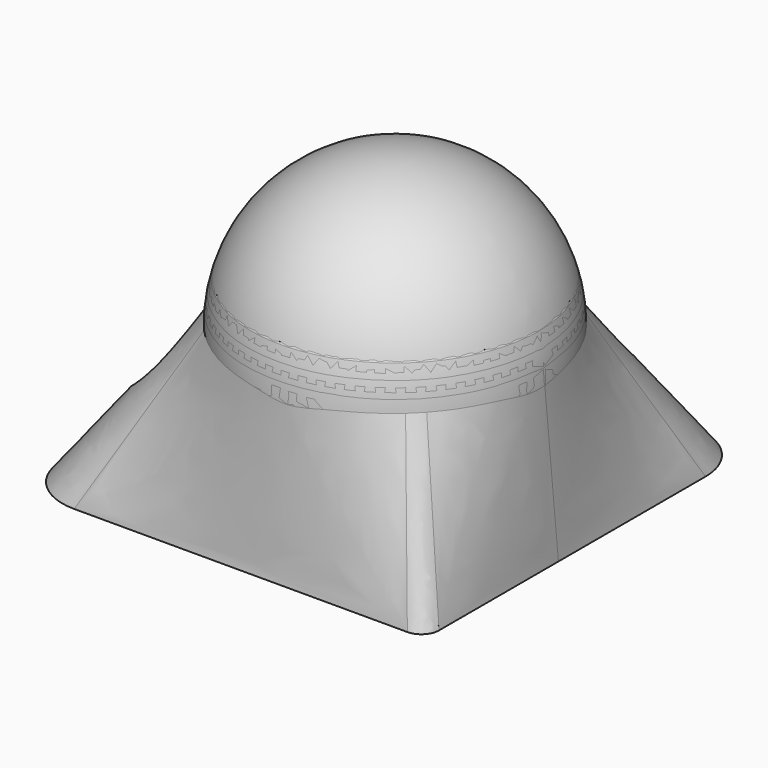
from build123d import *

# Parameters (mm, degrees)
SKETCH001_R     = 17
CYLINDER_R      = 17.01
CYLINDER_DEPTH  = 17.01
FILLET_R        = 1
SKETCH002_R     = 2.2
SKETCH002_R_2   = 3.8
POCKET_DEPTH    = 24.401
SKETCH003_R     = 3.8
POCKET001_DEPTH = 21.401
SKETCH006_R     = 17
SKETCH007_R     = 2.2
POCKET002_DEPTH = 36.011
SKETCH008_R     = 3.8
POCKET003_DEPTH = 33.011


with BuildPart() as body:
    # Sketch001 → AdditiveLoft section 0
    with BuildSketch(Plane.XY.offset(19)):
        Circle(SKETCH001_R)
    # Sketch → AdditiveLoft section 1
    with BuildSketch(Plane.XY):
        with BuildLine():
            ThreePointArc((-9.666667, 3), (-4.952621, 4.952621), (-3, 9.666667))
            Line((-3, 9.666667), (-3, 22.933333))
            ThreePointArc((3.666667, 29.6), (-1.047379, 27.647379), (-3, 22.933333))
            Line((3.666667, 29.6), (10.333333, 29.6))
            ThreePointArc((17, 22.933333), (15.047379, 27.647379), (10.333333, 29.6))
            Line((17, 22.933333), (17, -15))
            ThreePointArc((15, -17), (16.414214, -16.414214), (17, -15))
            Line((15, -17), (-22.933333, -17))
            ThreePointArc((-29.6, -10.333333), (-27.647379, -15.047379), (-22.933333, -17))
            Line((-29.6, -10.333333), (-29.6, -3.666667))
            ThreePointArc((-22.933333, 3), (-27.647379, 1.047379), (-29.6, -3.666667))
            Line((-22.933333, 3), (-9.666667, 3))
        make_face()
    loft()

    # Sphere → Sphere (revolve)
    with BuildSketch(Plane(origin=(0, 0, 19), x_dir=(1, 0, 0), z_dir=(0, -1, 0))):
        with BuildLine():
            ThreePointArc((0, -17.01), (17.01, 0), (0, 17.01))
            Line((0, 17.01), (0, -17.01))
        make_face()
    revolve(axis=Axis((0, 0, 19), (0, 0, 1)))

    # Cylinder → Cylinder (cut)
    with BuildSketch(Plane.XY.offset(24.4)):
        Circle(CYLINDER_R)
    extrude(amount=CYLINDER_DEPTH, mode=Mode.SUBTRACT)

    # Sphere001 → Sphere001 (revolve, cut)
    with BuildSketch(Plane(origin=(0, 0, 19), x_dir=(1, 0, 0), z_dir=(0, -1, 0))):
        with BuildLine():
            ThreePointArc((0, -15), (15, 0), (0, 15))
            Line((0, 15), (0, -15))
        make_face()
    revolve(axis=Axis((0, 0, 19), (0, 0, 1)), mode=Mode.SUBTRACT)

    # Fillet
    fillet_edges = [body.edges().sort_by_distance(p)[0] for p in [
        (-16.130099, 0, 24.4),
        (-13.994285, 0, 24.4),
    ]]
    fillet(fillet_edges, radius=FILLET_R)

    # Sketch002 → Pocket (cut, through all)
    with BuildSketch(Plane.XY):
        with Locations((7, 19.6)):
            Circle(SKETCH002_R)
        with Locations((-19.6, -7)):
            Circle(SKETCH002_R)
        Circle(SKETCH002_R_2)
    extrude(amount=POCKET_DEPTH, mode=Mode.SUBTRACT)

    # Sketch003 → Pocket001 (cut, through all)
    with BuildSketch(Plane.XY.offset(3)):
        with Locations((7, 19.6)):
            Circle(SKETCH003_R)
        with Locations((-19.6, -7)):
            Circle(SKETCH003_R)
    extrude(amount=POCKET001_DEPTH, mode=Mode.SUBTRACT)


with BuildPart() as plug:
    # Sketch004 → Revolution (revolve)
    with BuildSketch(Plane.XZ):
        Polygon((0, 0), (-16.385664, 0), (-16.385664, 10.471203), (-14.3, 10.471203), (-14.2, 12.554469), (0, 12.554469), align=None)
    revolve(axis=Axis((0, 0, 0), (0, 0, 1)))


with BuildPart() as tpu:
    # Sketch006 → AdditiveLoft001 section 0
    with BuildSketch(Plane.XY.offset(19)):
        Circle(SKETCH006_R)
    # Sketch005 → AdditiveLoft001 section 1
    with BuildSketch(Plane.XY):
        with BuildLine():
            ThreePointArc((-9.666667, 3), (-4.952621, 4.952621), (-3, 9.666667))
            Line((-3, 9.666667), (-3, 22.933333))
            ThreePointArc((3.666667, 29.6), (-1.047379, 27.647379), (-3, 22.933333))
            Line((3.666667, 29.6), (10.333333, 29.6))
            ThreePointArc((17, 22.933333), (15.047379, 27.647379), (10.333333, 29.6))
            Line((17, 22.933333), (17, -15))
            ThreePointArc((15, -17), (16.414214, -16.414214), (17, -15))
            Line((15, -17), (-22.933333, -17))
            ThreePointArc((-29.6, -10.333333), (-27.647379, -15.047379), (-22.933333, -17))
            Line((-29.6, -10.333333), (-29.6, -3.666667))
            ThreePointArc((-22.933333, 3), (-27.647379, 1.047379), (-29.6, -3.666667))
            Line((-22.933333, 3), (-9.666667, 3))
        make_face()
    loft()

    # Sphere002 → Sphere002 (revolve)
    with BuildSketch(Plane(origin=(0, 0, 19), x_dir=(1, 0, 0), z_dir=(0, -1, 0))):
        with BuildLine():
            ThreePointArc((0, -17.01), (17.01, 0), (0, 17.01))
            Line((0, 17.01), (0, -17.01))
        make_face()
    revolve(axis=Axis((0, 0, 19), (0, 0, 1)))

    # Sketch007 → Pocket002 (cut, through all)
    with BuildSketch(Plane.XY):
        with Locations((7, 19.6)):
            Circle(SKETCH007_R)
        with Locations((-19.6, -7)):
            Circle(SKETCH007_R)
    extrude(amount=POCKET002_DEPTH, mode=Mode.SUBTRACT)

    # Sketch008 → Pocket003 (cut, through all)
    with BuildSketch(Plane.XY.offset(3)):
        with Locations((7, 19.6)):
            Circle(SKETCH008_R)
        with Locations((-19.6, -7)):
            Circle(SKETCH008_R)
    extrude(amount=POCKET003_DEPTH, mode=Mode.SUBTRACT)


solid = Compound([body.part, plug.part, tpu.part])
